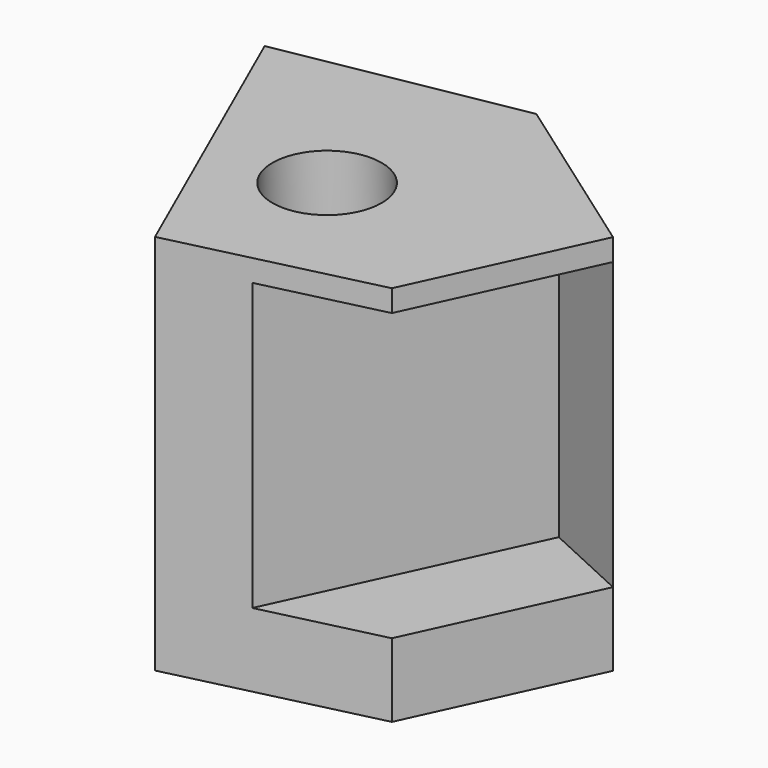
from build123d import *

# Parameters (mm, degrees)
F1_DEPTH = 159.004
F2_R     = 22.7154462009
F3_DEPTH = 25.4
F4_W     = 112.0414791829
F4_H     = 119.2157939076
F5_DEPTH = 39.37


with BuildPart() as f1:
    # F0 (on Top) → F1 (new body)
    with BuildSketch(Plane.XY):
        Polygon((-126.4487951994, 45.7677543163), (-70.34984231, -81.4194008708), (12.415018864, -61.5593157709), (46.0842102766, 11.474811472), (-27.5696720928, 63.6536478996), align=None)
    extrude(amount=F1_DEPTH)

    # F2 (on face) → F3 (cut)
    with BuildSketch(Plane.XY.offset(159.004)):
        with Locations((-50.3989383578, -16.7727395892)):
            Circle(F2_R)
    extrude(amount=-F3_DEPTH, mode=Mode.SUBTRACT)

    # F4 (on face) → F5 (cut)
    with BuildSketch(Plane(origin=(33.64399896, -15.5100948506, 0), x_dir=(0.4186597128, 0.9081431852, 0), z_dir=(0.9081431852, -0.4186597128, 0))):
        with Locations((-26.3063655135, 90.2826599777)):
            Rectangle(F4_W, F4_H)
    extrude(amount=-F5_DEPTH, mode=Mode.SUBTRACT)


solid = f1.part
